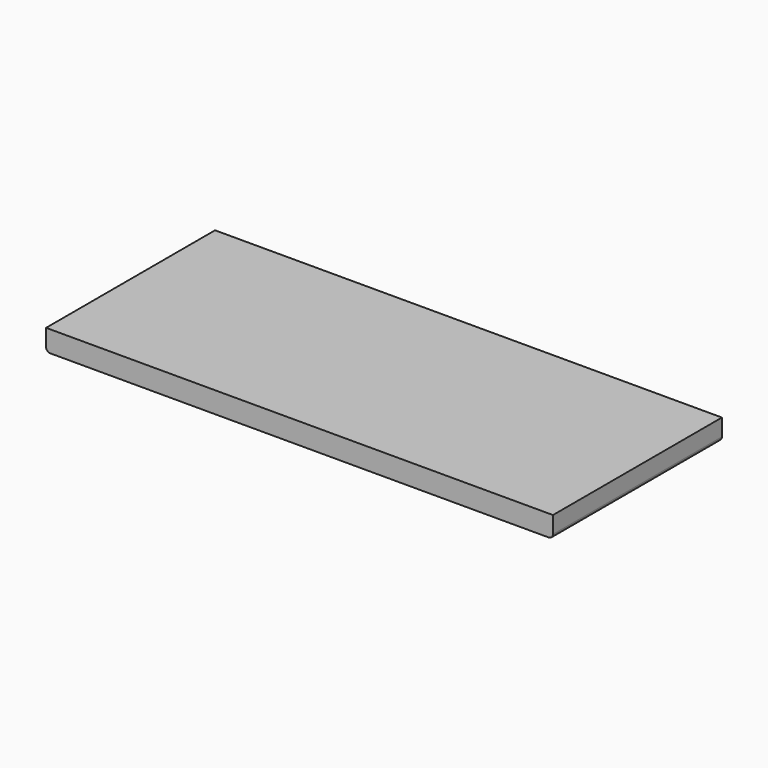
from build123d import *

# Parameters (mm, degrees)
F0_W     = 304.8
F0_H     = 12.7
F1_DEPTH = 63.5
F2_R     = 2.54


with BuildPart() as f1:
    # F0 (on Front) → F1 (new body, symmetric)
    with BuildSketch(Plane.XZ):
        Rectangle(F0_W, F0_H)
    extrude(amount=F1_DEPTH, both=True)

    # F2
    f2_edges = [f1.edges().sort_by_distance(p)[0] for p in [
        (-152.4, 0, -6.35),
        (152.4, 0, -6.35),
    ]]
    fillet(f2_edges, radius=F2_R)


solid = f1.part
